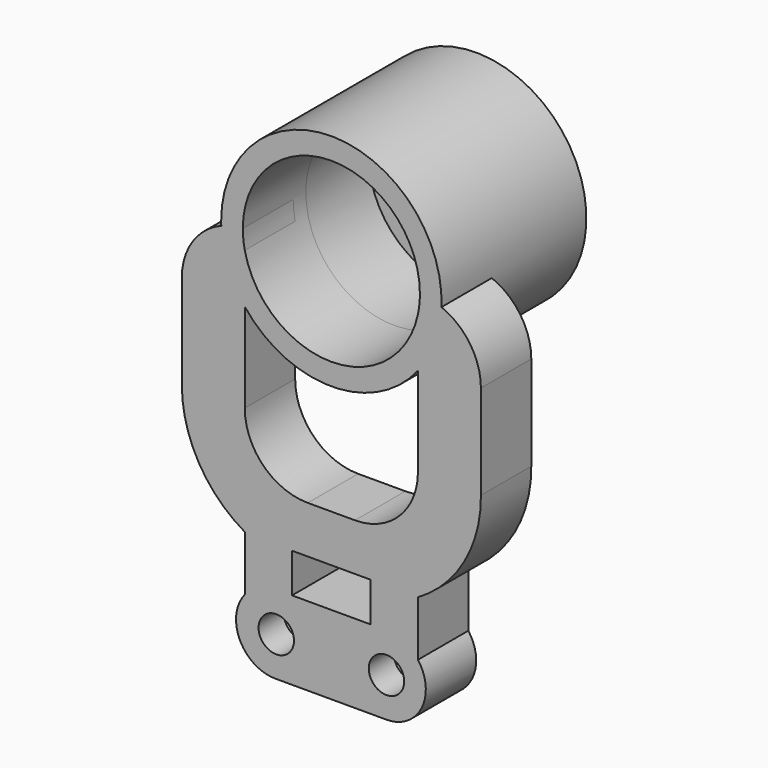
from build123d import *

# Parameters (mm, degrees)
SKETCH005_R             = 14
SKETCH005_R_2           = 11.25
PAD005_DEPTH            = 20
SKETCH006_R             = 14
SKETCH006_R_2           = 9
PAD006_DEPTH            = 3
SKETCH007_W             = 10
SKETCH007_H             = 5
PAD007_DEPTH            = 8
HOLE_D                  = 4.5
HOLE_DEPTH              = 25
HOLE_CBORE_D            = 7.5
HOLE_CBORE_DEPTH        = 4
SKETCH032_R             = 11.25
POCKET002_DEPTH         = 10
BODY002_PLACEMENT_ANGLE = 180


with BuildPart() as part:
    # Sketch005 → Pad005 (new body)
    with BuildSketch(Plane.XZ):
        Circle(SKETCH005_R)
        Circle(SKETCH005_R_2, mode=Mode.SUBTRACT)
    extrude(amount=PAD005_DEPTH)

    # Sketch006 (on Face3 of Pad005) → Pad006 (join)
    with BuildSketch(Plane(origin=(0, 0, 0), x_dir=(1, 0, 0), z_dir=(0, 1, 0))):
        Circle(SKETCH006_R)
        Circle(SKETCH006_R_2, mode=Mode.SUBTRACT)
    extrude(amount=PAD006_DEPTH)

    # Sketch007 (on Face3 of Pad006) → Pad007 (join)
    with BuildSketch(Plane.XZ.offset(20)):
        with BuildLine():
            Line((-11, 20), (-11, 0))
            ThreePointArc((-19, 8), (-16.656854, 2.343146), (-11, 0))
            Line((-19, 8), (-19, 20))
            ThreePointArc((-11, 34), (-16.892531, 28.081446), (-19, 20))
            Line((-11, 34), (-11, 41))
            ThreePointArc((-7, 49), (-11.472136, 46.236068), (-11, 41))
            Line((-7, 49), (7, 49))
            ThreePointArc((11, 40.856406), (11.600717, 46.205633), (7, 49))
            Line((11, 33.856406), (11, 40.856406))
            ThreePointArc((19, 20), (16.856406, 28), (11, 33.856406))
            Line((19, 20), (19, 8))
            ThreePointArc((11, 0), (16.656854, 2.343146), (19, 8))
            Line((11, 0), (11, 20))
            ThreePointArc((11, 20), (8.656855, 25.656854), (3.000001, 28))
            Line((-2.999999, 28), (3.000001, 28))
            ThreePointArc((-2.999999, 28), (-8.656854, 25.656855), (-11, 20))
        make_face()
        with Locations((0, 36.5)):
            Rectangle(SKETCH007_W, SKETCH007_H, mode=Mode.SUBTRACT)
    extrude(amount=-PAD007_DEPTH)

    # Hole
    with Locations(Plane(origin=(0, -12, 0), x_dir=(1, 0, 0), z_dir=(0, 1, 0))):
        with Locations((-7, -44), (7, -44)):
            CounterBoreHole(HOLE_D / 2, HOLE_CBORE_D / 2, HOLE_CBORE_DEPTH, depth=HOLE_DEPTH)

    # Sketch032 (on Face7 of Hole) → Pocket002 (cut)
    with BuildSketch(Plane.XZ.offset(20)):
        Circle(SKETCH032_R)
    extrude(amount=-POCKET002_DEPTH, mode=Mode.SUBTRACT)


with BuildPart() as part_1:
    # Body002 placement: moved
    add(part.part.moved(Location((19, 198, 62))).rotate(Axis((19, 198, 62), (0, 1, 0)), BODY002_PLACEMENT_ANGLE))


solid = part_1.part
